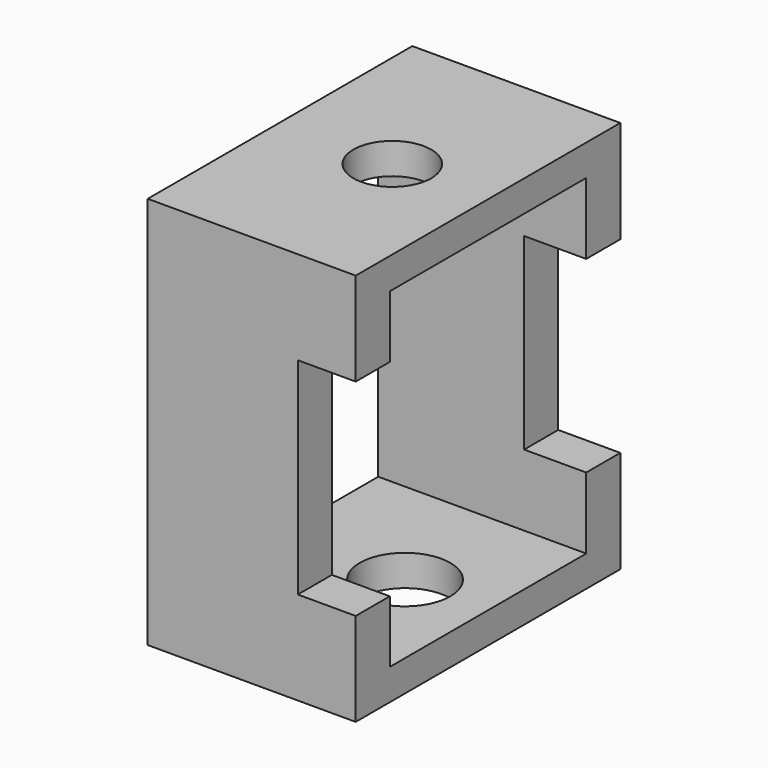
from build123d import *

# Parameters (mm, degrees)
F0_W     = 90.0560617447
F0_H     = 106.9972887635
F0_W_2   = 66.873319447
F0_H_2   = 90.0560542941
F1_DEPTH = 56.642
F2_W     = 16.9049244328
F2_H     = 51.2000992894
F3_DEPTH = 25.4
F4_W     = 15.7775770826
F4_H     = 56.1789758503
F5_DEPTH = 25.4
F6_R     = 10.5970708349
F7_DEPTH = 25.4
F8_R     = 12.3308316968
F9_DEPTH = 25.4


with BuildPart() as f1:
    # F0 (on Right) → F1 (new body)
    with BuildSketch(Plane.YZ):
        Rectangle(F0_W, F0_H)
        Rectangle(F0_W_2, F0_H_2, mode=Mode.SUBTRACT)
    extrude(amount=F1_DEPTH)

    # F2 (on face) → F3 (cut)
    with BuildSketch(Plane(origin=(0, 45.0280308723, 0), x_dir=(-1, 0, 0), z_dir=(0, 1, 0))):
        with Locations((-48.1895377836, 0)):
            Rectangle(F2_W, F2_H)
    extrude(amount=-F3_DEPTH, mode=Mode.SUBTRACT)

    # F4 (on face) → F5 (cut)
    with BuildSketch(Plane.XZ.offset(45.0280308723)):
        with Locations((48.7532114587, 0)):
            Rectangle(F4_W, F4_H)
    extrude(amount=-F5_DEPTH, mode=Mode.SUBTRACT)

    # F6 (on face) → F7 (cut)
    with BuildSketch(Plane.XY.offset(53.4986443818)):
        with Locations((30.5786505342, 0)):
            Circle(F6_R)
    extrude(amount=-F7_DEPTH, mode=Mode.SUBTRACT)

    # F8 (on face) → F9 (cut)
    with BuildSketch(Plane(origin=(0, 0, -53.4986443818), x_dir=(1, 0, 0), z_dir=(0, 0, -1))):
        with Locations((34.0463332832, 0)):
            Circle(F8_R)
    extrude(amount=-F9_DEPTH, mode=Mode.SUBTRACT)


solid = f1.part
